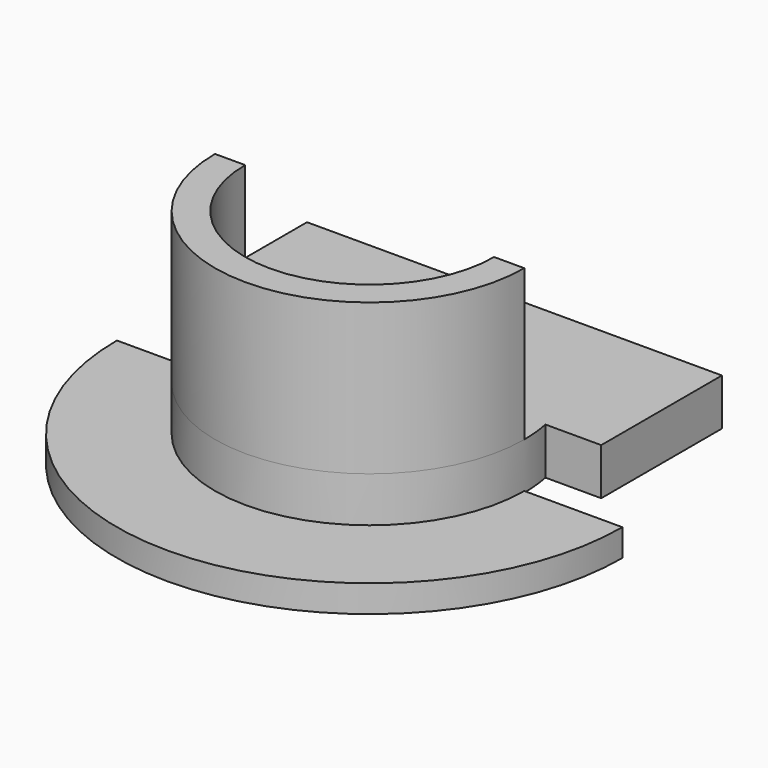
from build123d import *

# Parameters (mm, degrees)
F1_DEPTH      = 1.8
F2_DEPTH      = 3
F2_DEPTH_BACK = 0.1
F3_DEPTH      = 13
F3_DEPTH_BACK = 1.7


with BuildPart() as f1:
    # F0 (on Top) → F1 (new body)
    with BuildSketch(Plane.XY):
        with BuildLine():
            Line((-13.75, 0), (-16.75, 0))
            ThreePointArc((-16.75, 0), (0, -16.75), (16.75, 0))
            Line((16.75, 0), (13.75, 0))
            Line((13.75, 0), (10.25, 0))
            ThreePointArc((10.25, 0), (0, -10.25), (-10.25, 0))
            Line((-10.25, 0), (-13.75, 0))
        make_face()
        with BuildLine():
            Line((-8.25, 0), (-10.25, 0))
            ThreePointArc((-10.25, 0), (0, -10.25), (10.25, 0))
            Line((10.25, 0), (8.25, 0))
            ThreePointArc((8.25, 0), (0, -8.25), (-8.25, 0))
        make_face()
        with BuildLine():
            Line((8.25, 0), (-8.25, 0))
            ThreePointArc((-8.25, 0), (0, -8.25), (8.25, 0))
        make_face()
        with BuildLine():
            Line((-8.25, 0), (-10.25, 0))
            ThreePointArc((-10.25, 0), (0, -10.25), (10.25, 0))
            Line((10.25, 0), (8.25, 0))
            ThreePointArc((8.25, 0), (0, -8.25), (-8.25, 0))
        make_face()
    extrude(amount=-F1_DEPTH)

    # F0 (on Top) → F2 (join, two sides)
    with BuildSketch(Plane.XY) as f2_sk:
        with BuildLine():
            ThreePointArc((11.6859958925, 12), (12.7761141335, 10.8320546365), (13.75, 9.5655632349))
            Line((13.75, 9.5655632349), (13.75, 12))
            Line((13.75, 12), (11.6859958925, 12))
        make_face()
        with BuildLine():
            ThreePointArc((-10.0529846314, 2), (-10.2006272472, 1.0048401683), (-10.25, 0))
            Line((-10.25, 0), (-8.25, 0))
            ThreePointArc((-8.25, 0), (-8.1882451935, 1.0075418854), (-8.0039052968, 2))
            Line((-8.0039052968, 2), (-10.0529846314, 2))
        make_face()
        with BuildLine():
            ThreePointArc((-8.0039052968, 2), (-8.1882451935, 1.0075418854), (-8.25, 0))
            Line((-8.25, 0), (8.25, 0))
            ThreePointArc((8.25, 0), (8.1882451935, 1.0075418854), (8.0039052968, 2))
            Line((8.0039052968, 2), (-8.0039052968, 2))
        make_face()
        with BuildLine():
            Line((8.25, 0), (10.25, 0))
            ThreePointArc((10.25, 0), (10.2006272472, 1.0048401683), (10.0529846314, 2))
            Line((10.0529846314, 2), (8.0039052968, 2))
            ThreePointArc((8.0039052968, 2), (8.1882451935, 1.0075418854), (8.25, 0))
        make_face()
        with BuildLine():
            ThreePointArc((-11.6859958925, 12), (-12.7761141335, 10.8320546365), (-13.75, 9.5655632349))
            Line((-13.75, 9.5655632349), (-13.75, 2))
            Line((-13.75, 2), (-10.0529846314, 2))
            ThreePointArc((-10.0529846314, 2), (0, 10.25), (10.0529846314, 2))
            Line((10.0529846314, 2), (13.75, 2))
            Line((13.75, 2), (13.75, 9.5655632349))
            ThreePointArc((13.75, 9.5655632349), (12.7761141335, 10.8320546365), (11.6859958925, 12))
            Line((11.6859958925, 12), (-11.6859958925, 12))
        make_face()
        with BuildLine():
            ThreePointArc((-8.0039052968, 2), (-8.1882451935, 1.0075418854), (-8.25, 0))
            Line((-8.25, 0), (8.25, 0))
            ThreePointArc((8.25, 0), (8.1882451935, 1.0075418854), (8.0039052968, 2))
            Line((8.0039052968, 2), (-8.0039052968, 2))
        make_face()
        with BuildLine():
            Line((8.25, 0), (-8.25, 0))
            ThreePointArc((-8.25, 0), (0, -8.25), (8.25, 0))
        make_face()
        with BuildLine():
            Line((-8.25, 0), (-10.25, 0))
            ThreePointArc((-10.25, 0), (0, -10.25), (10.25, 0))
            Line((10.25, 0), (8.25, 0))
            ThreePointArc((8.25, 0), (0, -8.25), (-8.25, 0))
        make_face()
        with BuildLine():
            Line((-8.25, 0), (-10.25, 0))
            ThreePointArc((-10.25, 0), (0, -10.25), (10.25, 0))
            Line((10.25, 0), (8.25, 0))
            ThreePointArc((8.25, 0), (0, -8.25), (-8.25, 0))
        make_face()
        with BuildLine():
            Line((8.25, 0), (-8.25, 0))
            ThreePointArc((-8.25, 0), (0, -8.25), (8.25, 0))
        make_face()
        with BuildLine():
            ThreePointArc((10.0529846314, 2), (0, 10.25), (-10.0529846314, 2))
            Line((-10.0529846314, 2), (-8.0039052968, 2))
            ThreePointArc((-8.0039052968, 2), (0, 8.25), (8.0039052968, 2))
            Line((8.0039052968, 2), (10.0529846314, 2))
        make_face()
        with BuildLine():
            ThreePointArc((8.0039052968, 2), (0, 8.25), (-8.0039052968, 2))
            Line((-8.0039052968, 2), (8.0039052968, 2))
        make_face()
        with BuildLine():
            Line((-13.75, 12), (-13.75, 9.5655632349))
            ThreePointArc((-13.75, 9.5655632349), (-12.7761141335, 10.8320546365), (-11.6859958925, 12))
            Line((-11.6859958925, 12), (-13.75, 12))
        make_face()
    extrude(amount=F2_DEPTH)
    extrude(f2_sk.sketch, amount=-F2_DEPTH_BACK)

    # F0 (on Top) → F3 (join, two sides)
    with BuildSketch(Plane.XY) as f3_sk:
        with BuildLine():
            Line((-8.25, 0), (-10.25, 0))
            ThreePointArc((-10.25, 0), (0, -10.25), (10.25, 0))
            Line((10.25, 0), (8.25, 0))
            ThreePointArc((8.25, 0), (0, -8.25), (-8.25, 0))
        make_face()
    extrude(amount=F3_DEPTH)
    extrude(f3_sk.sketch, amount=-F3_DEPTH_BACK)


solid = f1.part
